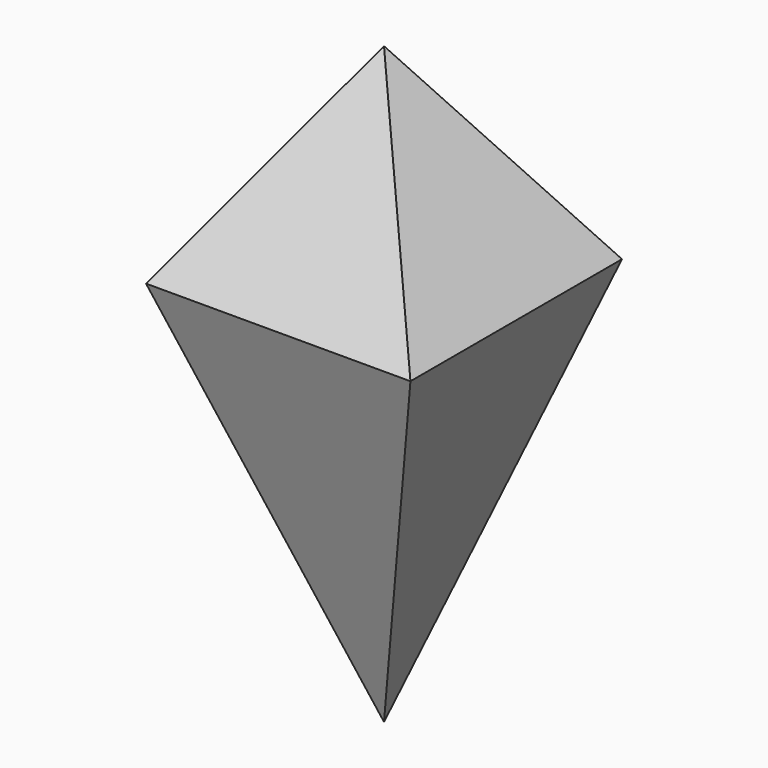
from build123d import *

# Parameters (mm, degrees)
F0_W      = 20
F0_H      = 20
F4_FACE_W = 20
F4_FACE_H = 20


with BuildPart() as f4:
    # F0 (on Top) → F4 section 0
    with BuildSketch(Plane.XY, mode=Mode.PRIVATE) as f4_s0:
        Rectangle(F0_W, F0_H)
    loft([f4_s0.sketch, Vertex(0, 0, 15)])

    # F4_face (on face) → F6 section 0
    with BuildSketch(Plane(origin=(0, 0, 0), x_dir=(1, 0, 0), z_dir=(0, 0, -1)), mode=Mode.PRIVATE) as f6_s0:
        Rectangle(F4_FACE_W, F4_FACE_H)
    loft([f6_s0.sketch, Vertex(0, 0, -30)])


solid = f4.part
